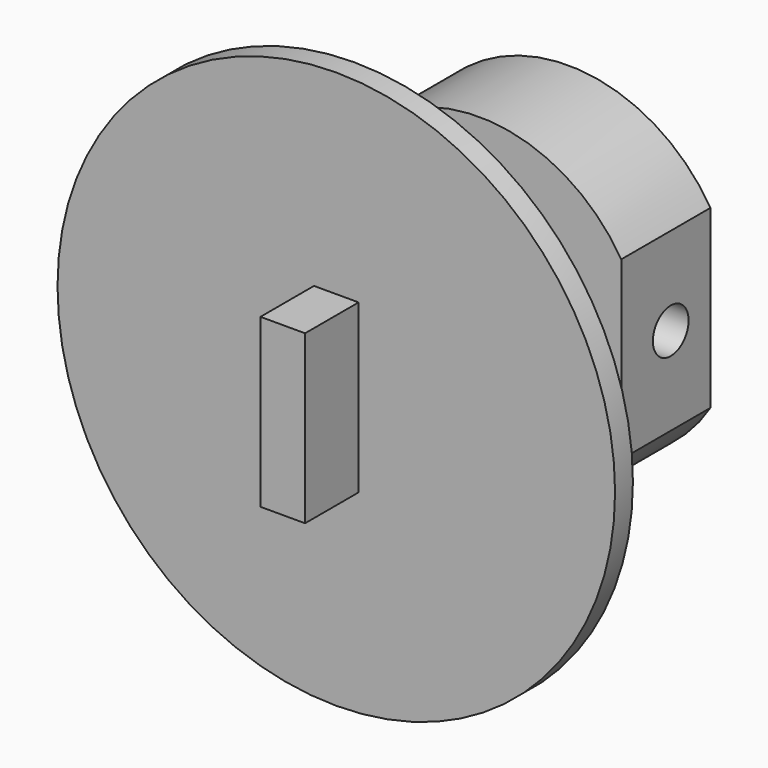
from build123d import *

# Parameters (mm, degrees)
F0_R      = 7.5
F1_DEPTH  = 5
F2_R      = 5
F3_DEPTH  = 7
F4_R      = 12.5
F5_DEPTH  = 1
F6_W      = 2
F6_H      = 7.5
F7_DEPTH  = 3
F9_DEPTH  = 5
F10_R     = 1
F11_DEPTH = 25


with BuildPart() as f1:
    # F0 (on Front) → F1 (new body)
    with BuildSketch(Plane.XZ):
        Circle(F0_R)
    extrude(amount=F1_DEPTH)

    # F2 (on face) → F3 (join)
    with BuildSketch(Plane.XZ.offset(5)):
        Circle(F2_R)
    extrude(amount=F3_DEPTH)

    # F4 (on face) → F5 (join)
    with BuildSketch(Plane.XZ.offset(12)):
        Circle(F4_R)
    extrude(amount=F5_DEPTH)

    # F6 (on face) → F7 (join)
    with BuildSketch(Plane.XZ.offset(13)):
        Rectangle(F6_W, F6_H)
    extrude(amount=F7_DEPTH)

    # F8 (on face) → F9 (cut)
    with BuildSketch(Plane(origin=(0, 0, 0), x_dir=(-1, 0, 0), z_dir=(0, 1, 0))):
        with BuildLine():
            Line((-6.377801, -3.946347), (-6.377801, 3.946347))
            ThreePointArc((-6.377801, 3.946347), (-7.5, 0), (-6.377801, -3.946347))
        make_face()
        with BuildLine():
            ThreePointArc((6.377801, -3.946347), (7.5, 0), (6.377801, 3.946347))
            Line((6.377801, 3.946347), (6.377801, -3.946347))
        make_face()
    extrude(amount=-F9_DEPTH, mode=Mode.SUBTRACT)

    # F10 (on face) → F11 (cut)
    with BuildSketch(Plane.YZ.offset(6.377801)):
        with Locations((-2.22767, 0)):
            Circle(F10_R)
    extrude(amount=-F11_DEPTH, mode=Mode.SUBTRACT)


solid = f1.part
